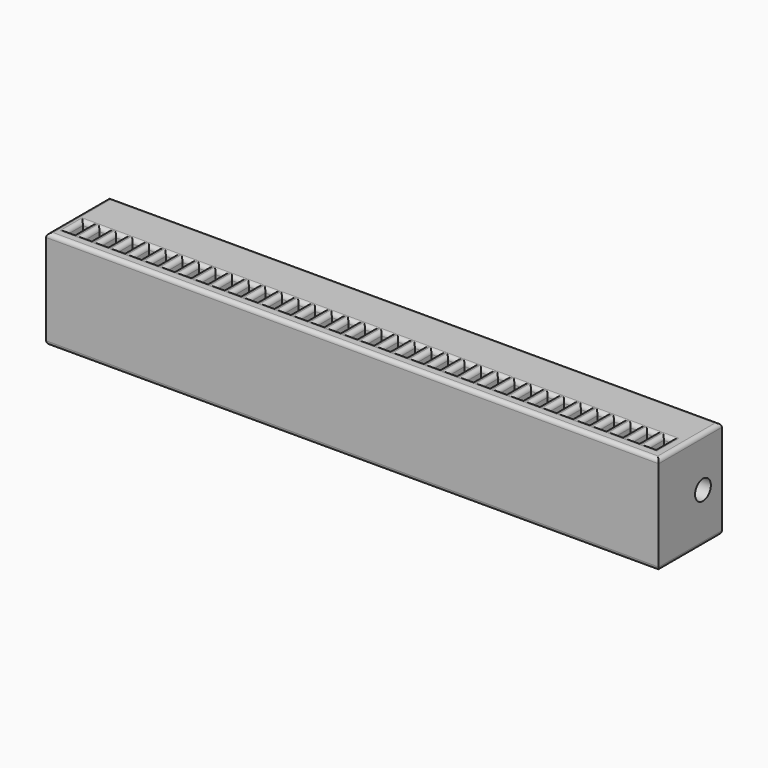
from build123d import *

# Parameters (mm, degrees)
F0_W     = 155
F0_H     = 20
F0_W_2   = 2
F0_H_2   = 5
F1_DEPTH = 25
F2_R     = 1
F3_R     = 1
F5_D     = 5


with BuildPart() as f1:
    # F0 (on Top) → F1 (new body)
    with BuildSketch(Plane.XY):
        Rectangle(F0_W, F0_H)
        with Locations((-74, -4)):
            Rectangle(F0_W_2, F0_H_2, mode=Mode.SUBTRACT)
        with Locations((-69.8, -4)):
            Rectangle(F0_W_2, F0_H_2, mode=Mode.SUBTRACT)
        with Locations((-65.6, -4)):
            Rectangle(F0_W_2, F0_H_2, mode=Mode.SUBTRACT)
        with Locations((-61.4, -4)):
            Rectangle(F0_W_2, F0_H_2, mode=Mode.SUBTRACT)
        with Locations((-57.2, -4)):
            Rectangle(F0_W_2, F0_H_2, mode=Mode.SUBTRACT)
        with Locations((-53, -4)):
            Rectangle(F0_W_2, F0_H_2, mode=Mode.SUBTRACT)
        with Locations((-48.8, -4)):
            Rectangle(F0_W_2, F0_H_2, mode=Mode.SUBTRACT)
        with Locations((-44.6, -4)):
            Rectangle(F0_W_2, F0_H_2, mode=Mode.SUBTRACT)
        with Locations((-40.4, -4)):
            Rectangle(F0_W_2, F0_H_2, mode=Mode.SUBTRACT)
        with Locations((-36.2, -4)):
            Rectangle(F0_W_2, F0_H_2, mode=Mode.SUBTRACT)
        with Locations((-32, -4)):
            Rectangle(F0_W_2, F0_H_2, mode=Mode.SUBTRACT)
        with Locations((-27.8, -4)):
            Rectangle(F0_W_2, F0_H_2, mode=Mode.SUBTRACT)
        with Locations((-23.6, -4)):
            Rectangle(F0_W_2, F0_H_2, mode=Mode.SUBTRACT)
        with Locations((-19.4, -4)):
            Rectangle(F0_W_2, F0_H_2, mode=Mode.SUBTRACT)
        with Locations((-15.2, -4)):
            Rectangle(F0_W_2, F0_H_2, mode=Mode.SUBTRACT)
        with Locations((-11, -4)):
            Rectangle(F0_W_2, F0_H_2, mode=Mode.SUBTRACT)
        with Locations((-6.8, -4)):
            Rectangle(F0_W_2, F0_H_2, mode=Mode.SUBTRACT)
        with Locations((-2.6, -4)):
            Rectangle(F0_W_2, F0_H_2, mode=Mode.SUBTRACT)
        with Locations((1.6, -4)):
            Rectangle(F0_W_2, F0_H_2, mode=Mode.SUBTRACT)
        with Locations((5.8, -4)):
            Rectangle(F0_W_2, F0_H_2, mode=Mode.SUBTRACT)
        with Locations((10, -4)):
            Rectangle(F0_W_2, F0_H_2, mode=Mode.SUBTRACT)
        with Locations((14.2, -4)):
            Rectangle(F0_W_2, F0_H_2, mode=Mode.SUBTRACT)
        with Locations((18.4, -4)):
            Rectangle(F0_W_2, F0_H_2, mode=Mode.SUBTRACT)
        with Locations((22.6, -4)):
            Rectangle(F0_W_2, F0_H_2, mode=Mode.SUBTRACT)
        with Locations((26.8, -4)):
            Rectangle(F0_W_2, F0_H_2, mode=Mode.SUBTRACT)
        with Locations((31, -4)):
            Rectangle(F0_W_2, F0_H_2, mode=Mode.SUBTRACT)
        with Locations((35.2, -4)):
            Rectangle(F0_W_2, F0_H_2, mode=Mode.SUBTRACT)
        with Locations((39.4, -4)):
            Rectangle(F0_W_2, F0_H_2, mode=Mode.SUBTRACT)
        with Locations((43.6, -4)):
            Rectangle(F0_W_2, F0_H_2, mode=Mode.SUBTRACT)
        with Locations((47.8, -4)):
            Rectangle(F0_W_2, F0_H_2, mode=Mode.SUBTRACT)
        with Locations((52, -4)):
            Rectangle(F0_W_2, F0_H_2, mode=Mode.SUBTRACT)
        with Locations((56.2, -4)):
            Rectangle(F0_W_2, F0_H_2, mode=Mode.SUBTRACT)
        with Locations((60.4, -4)):
            Rectangle(F0_W_2, F0_H_2, mode=Mode.SUBTRACT)
        with Locations((64.6, -4)):
            Rectangle(F0_W_2, F0_H_2, mode=Mode.SUBTRACT)
        with Locations((68.8, -4)):
            Rectangle(F0_W_2, F0_H_2, mode=Mode.SUBTRACT)
        with Locations((73, -4)):
            Rectangle(F0_W_2, F0_H_2, mode=Mode.SUBTRACT)
    extrude(amount=F1_DEPTH)

    # F2
    f2_edges = [f1.edges().sort_by_distance(p)[0] for p in [
        (0, -10, 25),
        (77.5, 0, 25),
        (0, 10, 25),
        (-77.5, 0, 25),
        (-75, -4, 25),
        (-74, -1.5, 25),
        (-73, -4, 25),
        (-74, -6.5, 25),
        (-70.8, -4, 25),
        (-69.8, -1.5, 25),
        (-68.8, -4, 25),
        (-69.8, -6.5, 25),
        (-66.6, -4, 25),
        (-65.6, -1.5, 25),
        (-64.6, -4, 25),
        (-65.6, -6.5, 25),
        (-62.4, -4, 25),
        (-61.4, -1.5, 25),
        (-60.4, -4, 25),
        (-61.4, -6.5, 25),
        (-58.2, -4, 25),
        (-57.2, -1.5, 25),
        (-56.2, -4, 25),
        (-57.2, -6.5, 25),
        (-54, -4, 25),
        (-53, -1.5, 25),
        (-52, -4, 25),
        (-53, -6.5, 25),
        (-49.8, -4, 25),
        (-48.8, -1.5, 25),
        (-47.8, -4, 25),
        (-48.8, -6.5, 25),
        (-45.6, -4, 25),
        (-44.6, -1.5, 25),
        (-43.6, -4, 25),
        (-44.6, -6.5, 25),
        (-41.4, -4, 25),
        (-40.4, -1.5, 25),
        (-39.4, -4, 25),
        (-40.4, -6.5, 25),
        (-37.2, -4, 25),
        (-36.2, -1.5, 25),
        (-35.2, -4, 25),
        (-36.2, -6.5, 25),
        (-33, -4, 25),
        (-32, -1.5, 25),
        (-31, -4, 25),
        (-32, -6.5, 25),
        (-28.8, -4, 25),
        (-27.8, -1.5, 25),
        (-26.8, -4, 25),
        (-27.8, -6.5, 25),
        (-24.6, -4, 25),
        (-23.6, -1.5, 25),
        (-22.6, -4, 25),
        (-23.6, -6.5, 25),
        (-20.4, -4, 25),
        (-19.4, -1.5, 25),
        (-18.4, -4, 25),
        (-19.4, -6.5, 25),
        (-16.2, -4, 25),
        (-15.2, -1.5, 25),
        (-14.2, -4, 25),
        (-15.2, -6.5, 25),
        (-12, -4, 25),
        (-11, -1.5, 25),
        (-10, -4, 25),
        (-11, -6.5, 25),
        (-7.8, -4, 25),
        (-6.8, -1.5, 25),
        (-5.8, -4, 25),
        (-6.8, -6.5, 25),
        (-3.6, -4, 25),
        (-2.6, -1.5, 25),
        (-1.6, -4, 25),
        (-2.6, -6.5, 25),
        (0.6, -4, 25),
        (1.6, -1.5, 25),
        (2.6, -4, 25),
        (1.6, -6.5, 25),
        (4.8, -4, 25),
        (5.8, -1.5, 25),
        (6.8, -4, 25),
        (5.8, -6.5, 25),
        (9, -4, 25),
        (10, -1.5, 25),
        (11, -4, 25),
        (10, -6.5, 25),
        (13.2, -4, 25),
        (14.2, -1.5, 25),
        (15.2, -4, 25),
        (14.2, -6.5, 25),
        (17.4, -4, 25),
        (18.4, -1.5, 25),
        (19.4, -4, 25),
        (18.4, -6.5, 25),
        (21.6, -4, 25),
        (22.6, -1.5, 25),
        (23.6, -4, 25),
        (22.6, -6.5, 25),
        (25.8, -4, 25),
        (26.8, -1.5, 25),
        (27.8, -4, 25),
        (26.8, -6.5, 25),
        (30, -4, 25),
        (31, -1.5, 25),
        (32, -4, 25),
        (31, -6.5, 25),
        (34.2, -4, 25),
        (35.2, -1.5, 25),
        (36.2, -4, 25),
        (35.2, -6.5, 25),
        (38.4, -4, 25),
        (39.4, -1.5, 25),
        (40.4, -4, 25),
        (39.4, -6.5, 25),
        (42.6, -4, 25),
        (43.6, -1.5, 25),
        (44.6, -4, 25),
        (43.6, -6.5, 25),
        (46.8, -4, 25),
        (47.8, -1.5, 25),
        (48.8, -4, 25),
        (47.8, -6.5, 25),
        (51, -4, 25),
        (52, -1.5, 25),
        (53, -4, 25),
        (52, -6.5, 25),
        (55.2, -4, 25),
        (56.2, -1.5, 25),
        (57.2, -4, 25),
        (56.2, -6.5, 25),
        (59.4, -4, 25),
        (60.4, -1.5, 25),
        (61.4, -4, 25),
        (60.4, -6.5, 25),
        (63.6, -4, 25),
        (64.6, -1.5, 25),
        (65.6, -4, 25),
        (64.6, -6.5, 25),
        (67.8, -4, 25),
        (68.8, -1.5, 25),
        (69.8, -4, 25),
        (68.8, -6.5, 25),
        (72, -4, 25),
        (73, -1.5, 25),
        (74, -4, 25),
        (73, -6.5, 25),
    ]]
    fillet(f2_edges, radius=F2_R)

    # F3
    f3_edges = [f1.edges().sort_by_distance(p)[0] for p in [
        (0, -10, 0),
        (77.5, 0, 0),
        (0, 10, 0),
        (-77.5, 0, 0),
        (-75, -4, 0),
        (-74, -1.5, 0),
        (-73, -4, 0),
        (-74, -6.5, 0),
        (-70.8, -4, 0),
        (-69.8, -1.5, 0),
        (-68.8, -4, 0),
        (-69.8, -6.5, 0),
        (-66.6, -4, 0),
        (-65.6, -1.5, 0),
        (-64.6, -4, 0),
        (-65.6, -6.5, 0),
        (-62.4, -4, 0),
        (-61.4, -1.5, 0),
        (-60.4, -4, 0),
        (-61.4, -6.5, 0),
        (-58.2, -4, 0),
        (-57.2, -1.5, 0),
        (-56.2, -4, 0),
        (-57.2, -6.5, 0),
        (-54, -4, 0),
        (-53, -1.5, 0),
        (-52, -4, 0),
        (-53, -6.5, 0),
        (-49.8, -4, 0),
        (-48.8, -1.5, 0),
        (-47.8, -4, 0),
        (-48.8, -6.5, 0),
        (-45.6, -4, 0),
        (-44.6, -1.5, 0),
        (-43.6, -4, 0),
        (-44.6, -6.5, 0),
        (-41.4, -4, 0),
        (-40.4, -1.5, 0),
        (-39.4, -4, 0),
        (-40.4, -6.5, 0),
        (-37.2, -4, 0),
        (-36.2, -1.5, 0),
        (-35.2, -4, 0),
        (-36.2, -6.5, 0),
        (-33, -4, 0),
        (-32, -1.5, 0),
        (-31, -4, 0),
        (-32, -6.5, 0),
        (-28.8, -4, 0),
        (-27.8, -1.5, 0),
        (-26.8, -4, 0),
        (-27.8, -6.5, 0),
        (-24.6, -4, 0),
        (-23.6, -1.5, 0),
        (-22.6, -4, 0),
        (-23.6, -6.5, 0),
        (-20.4, -4, 0),
        (-19.4, -1.5, 0),
        (-18.4, -4, 0),
        (-19.4, -6.5, 0),
        (-16.2, -4, 0),
        (-15.2, -1.5, 0),
        (-14.2, -4, 0),
        (-15.2, -6.5, 0),
        (-12, -4, 0),
        (-11, -1.5, 0),
        (-10, -4, 0),
        (-11, -6.5, 0),
        (-7.8, -4, 0),
        (-6.8, -1.5, 0),
        (-5.8, -4, 0),
        (-6.8, -6.5, 0),
        (-3.6, -4, 0),
        (-2.6, -1.5, 0),
        (-1.6, -4, 0),
        (-2.6, -6.5, 0),
        (0.6, -4, 0),
        (1.6, -1.5, 0),
        (2.6, -4, 0),
        (1.6, -6.5, 0),
        (4.8, -4, 0),
        (5.8, -1.5, 0),
        (6.8, -4, 0),
        (5.8, -6.5, 0),
        (9, -4, 0),
        (10, -1.5, 0),
        (11, -4, 0),
        (10, -6.5, 0),
        (13.2, -4, 0),
        (14.2, -1.5, 0),
        (15.2, -4, 0),
        (14.2, -6.5, 0),
        (17.4, -4, 0),
        (18.4, -1.5, 0),
        (19.4, -4, 0),
        (18.4, -6.5, 0),
        (21.6, -4, 0),
        (22.6, -1.5, 0),
        (23.6, -4, 0),
        (22.6, -6.5, 0),
        (25.8, -4, 0),
        (26.8, -1.5, 0),
        (27.8, -4, 0),
        (26.8, -6.5, 0),
        (30, -4, 0),
        (31, -1.5, 0),
        (32, -4, 0),
        (31, -6.5, 0),
        (34.2, -4, 0),
        (35.2, -1.5, 0),
        (36.2, -4, 0),
        (35.2, -6.5, 0),
        (38.4, -4, 0),
        (39.4, -1.5, 0),
        (40.4, -4, 0),
        (39.4, -6.5, 0),
        (42.6, -4, 0),
        (43.6, -1.5, 0),
        (44.6, -4, 0),
        (43.6, -6.5, 0),
        (46.8, -4, 0),
        (47.8, -1.5, 0),
        (48.8, -4, 0),
        (47.8, -6.5, 0),
        (51, -4, 0),
        (52, -1.5, 0),
        (53, -4, 0),
        (52, -6.5, 0),
        (55.2, -4, 0),
        (56.2, -1.5, 0),
        (57.2, -4, 0),
        (56.2, -6.5, 0),
        (59.4, -4, 0),
        (60.4, -1.5, 0),
        (61.4, -4, 0),
        (60.4, -6.5, 0),
        (63.6, -4, 0),
        (64.6, -1.5, 0),
        (65.6, -4, 0),
        (64.6, -6.5, 0),
        (67.8, -4, 0),
        (68.8, -1.5, 0),
        (69.8, -4, 0),
        (68.8, -6.5, 0),
        (72, -4, 0),
        (73, -1.5, 0),
        (74, -4, 0),
        (73, -6.5, 0),
    ]]
    fillet(f3_edges, radius=F3_R)

    # F5 (through all)
    with Locations(Plane(origin=(-77.5, 0, 0), x_dir=(0, -1, 0), z_dir=(-1, 0, 0))):
        with Locations((-4, 12.5)):
            Hole(F5_D / 2)


solid = f1.part
